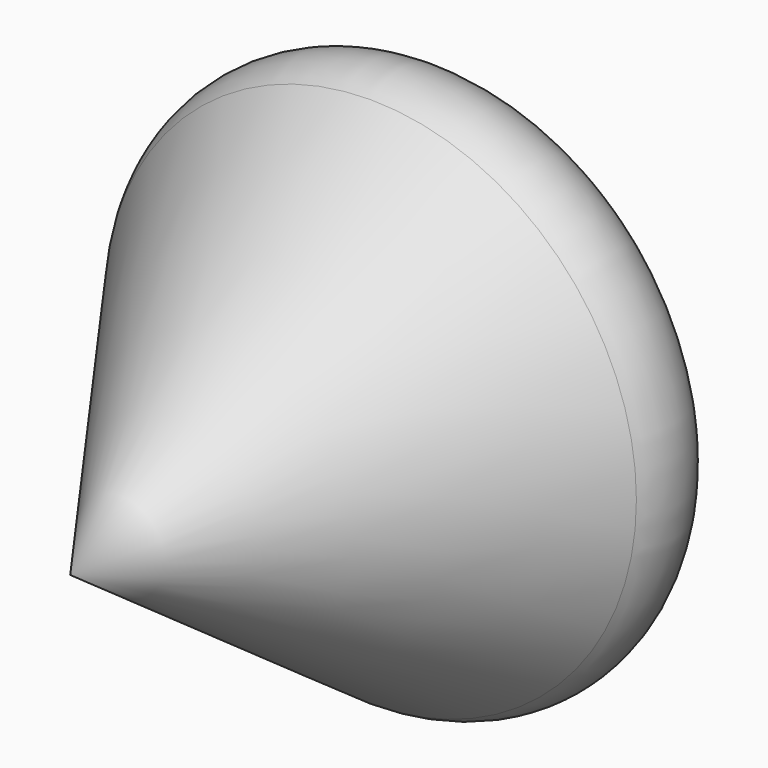
from build123d import *

# Parameters (mm, degrees)
F2_R     = 6.115272
F4_DEPTH = 15.7


with BuildPart() as f1:
    # F0 (on Top) → F1 (revolve)
    with BuildSketch(Plane.XY):
        Polygon((0, -25.548944), (0, 18.719036), (-31.367026, 18.719036), align=None)
    revolve(axis=Axis((0, -3.414954, 0), (0, 1, 0)))

    # F2
    f2_edges = [f1.edges().sort_by_distance(p)[0] for p in [
        (31.367026, 18.719036, 0),
    ]]
    fillet(f2_edges, radius=F2_R)

    # F3 (on face) → F4 (cut)
    with BuildSketch(Plane(origin=(0, 18.719036, 0), x_dir=(-1, 0, 0), z_dir=(0, 1, 0))):
        Polygon((-0.096357, 5.727981), (-5.008755, 2.780543), (-4.912399, -2.947438), (0.096357, -5.727981), (5.008755, -2.780543), (4.912399, 2.947438), align=None)
    extrude(amount=-F4_DEPTH, mode=Mode.SUBTRACT)


solid = f1.part
